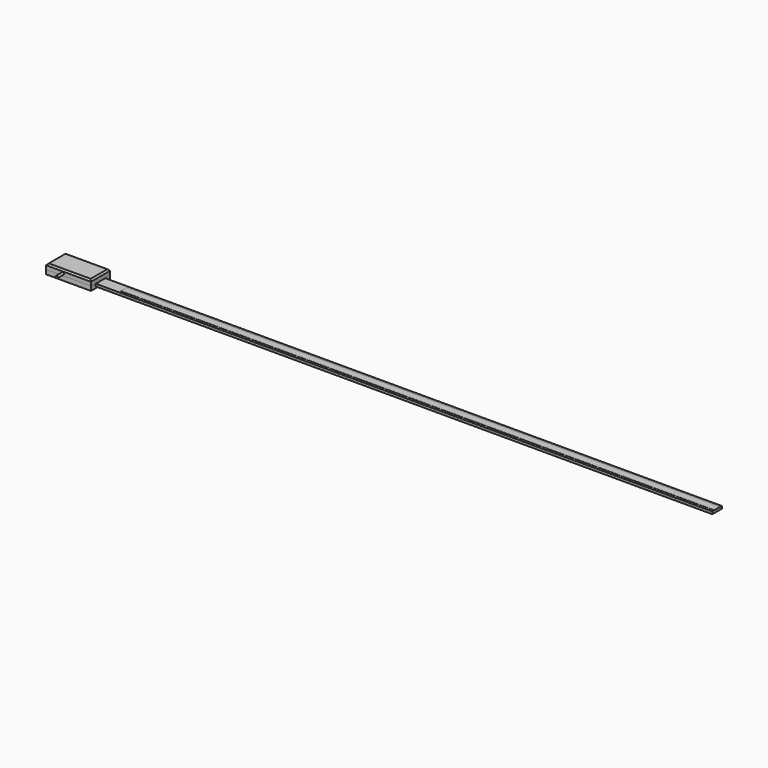
from build123d import *

# Parameters (mm, degrees)
F0_W      = 74.93
F0_H      = 39.878
F1_DEPTH  = 7.2136
F2_W      = 74.93
F2_H      = 39.878
F3_DEPTH  = 8.763
F4_SIZE   = 2.54
F5_R      = 1.905
F6_DEPTH  = 12.7
F7_W      = 19.9644
F7_H      = 4.064
F8_DEPTH  = 74.931
F10_W     = 19.9644
F10_H     = 4.064
F11_DEPTH = 1066.8
F12_W     = 990.6
F12_H     = 12.3444
F13_DEPTH = 0.254
F14_D     = 3.3
F14_DEPTH = 1.27
F14_TIP   = 0.9914200214


with BuildPart() as f1:
    # F0 (on Top) → F1 (new body)
    with BuildSketch(Plane.XY):
        Rectangle(F0_W, F0_H)
    extrude(amount=-F1_DEPTH)

    # F7 (on face) → F8 (cut, through all)
    with BuildSketch(Plane.YZ.offset(37.465)):
        with Locations((0, -2.667)):
            Rectangle(F7_W, F7_H)
    extrude(amount=-F8_DEPTH, mode=Mode.SUBTRACT)

    # F14
    with Locations(Plane(origin=(0, 0, -7.2136), x_dir=(1, 0, 0), z_dir=(0, 0, -1))):
        with Locations((20.193, 4.572), (20.193, -4.572), (10.033, 0), (-10.033, 0), (-20.193, 4.572), (-20.193, -4.572)):
            Hole(F14_D / 2, depth=F14_DEPTH)
            with Locations((0, 0, -(F14_DEPTH + F14_TIP / 2))):  # 118° drill point
                Cone(0, F14_D / 2, F14_TIP, mode=Mode.SUBTRACT)


with BuildPart() as f3:
    # F2 (on face) → F3 (new body)
    with BuildSketch(Plane.XY):
        Rectangle(F2_W, F2_H)
    extrude(amount=F3_DEPTH)

    # F4
    f4_edges = [f3.edges().sort_by_distance(p)[0] for p in [
        (37.465, 0, 8.763),
        (0, 19.939, 8.763),
        (-37.465, 0, 8.763),
        (0, -19.939, 8.763),
    ]]
    chamfer(f4_edges, length=F4_SIZE)


with BuildPart() as f6:
    # F5 (on face) → F6 (new body)
    with BuildSketch(Plane.XZ.offset(19.939)):
        with Locations((-9.525, 3.1364320312)):
            Circle(F5_R)
    extrude(amount=F6_DEPTH)


with BuildPart() as f11:
    # F10 (on Right) → F11 (new body)
    with BuildSketch(Plane.YZ):
        with Locations((0, -2.6416)):
            Rectangle(F10_W, F10_H)
    extrude(amount=F11_DEPTH)


with BuildPart() as f13:
    # F12 (on face) → F13 (new body)
    with BuildSketch(Plane.XY.offset(-0.6096)):
        with Locations((571.5, 0)):
            Rectangle(F12_W, F12_H)
    extrude(amount=F13_DEPTH)


solid = Compound([f1.part, f3.part, f6.part, f11.part, f13.part])
